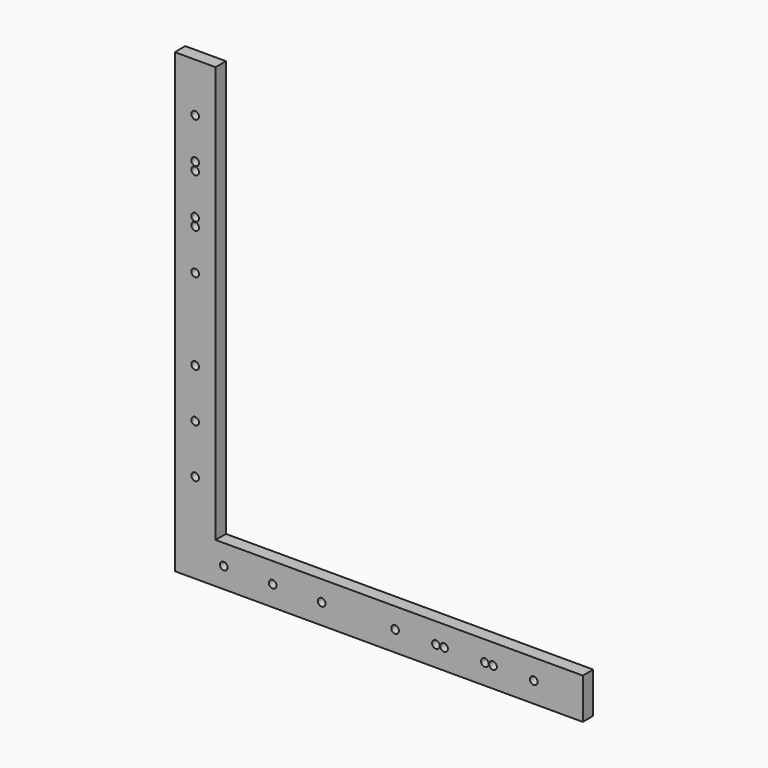
from build123d import *

# Parameters (mm, degrees)
F0_R     = 2.35
F1_DEPTH = 8


with BuildPart() as f1:
    # F0 (on Front) → F1 (new body)
    with BuildSketch(Plane.XZ):
        Polygon((-125, 135), (-125, -145), (125, -145), (125, -120), (-100, -120), (-100, 135), align=None)
        with Locations((-95, -132.5)):
            Circle(F0_R, mode=Mode.SUBTRACT)
        with Locations((-65, -132.5)):
            Circle(F0_R, mode=Mode.SUBTRACT)
        with Locations((-112.5, -90)):
            Circle(F0_R, mode=Mode.SUBTRACT)
        with Locations((-35, -132.5)):
            Circle(F0_R, mode=Mode.SUBTRACT)
        with Locations((-112.5, -60)):
            Circle(F0_R, mode=Mode.SUBTRACT)
        with Locations((-112.5, -30)):
            Circle(F0_R, mode=Mode.SUBTRACT)
        with Locations((10, -132.5)):
            Circle(F0_R, mode=Mode.SUBTRACT)
        with Locations((35, -132.5)):
            Circle(F0_R, mode=Mode.SUBTRACT)
        with Locations((40, -132.5)):
            Circle(F0_R, mode=Mode.SUBTRACT)
        with Locations((65, -132.5)):
            Circle(F0_R, mode=Mode.SUBTRACT)
        with Locations((70, -132.5)):
            Circle(F0_R, mode=Mode.SUBTRACT)
        with Locations((95, -132.5)):
            Circle(F0_R, mode=Mode.SUBTRACT)
        with Locations((-112.5, 20)):
            Circle(F0_R, mode=Mode.SUBTRACT)
        with Locations((-112.5, 45)):
            Circle(F0_R, mode=Mode.SUBTRACT)
        with Locations((-112.5, 50)):
            Circle(F0_R, mode=Mode.SUBTRACT)
        with Locations((-112.5, 75)):
            Circle(F0_R, mode=Mode.SUBTRACT)
        with Locations((-112.5, 80)):
            Circle(F0_R, mode=Mode.SUBTRACT)
        with Locations((-112.5, 105)):
            Circle(F0_R, mode=Mode.SUBTRACT)
    extrude(amount=F1_DEPTH)


solid = f1.part
